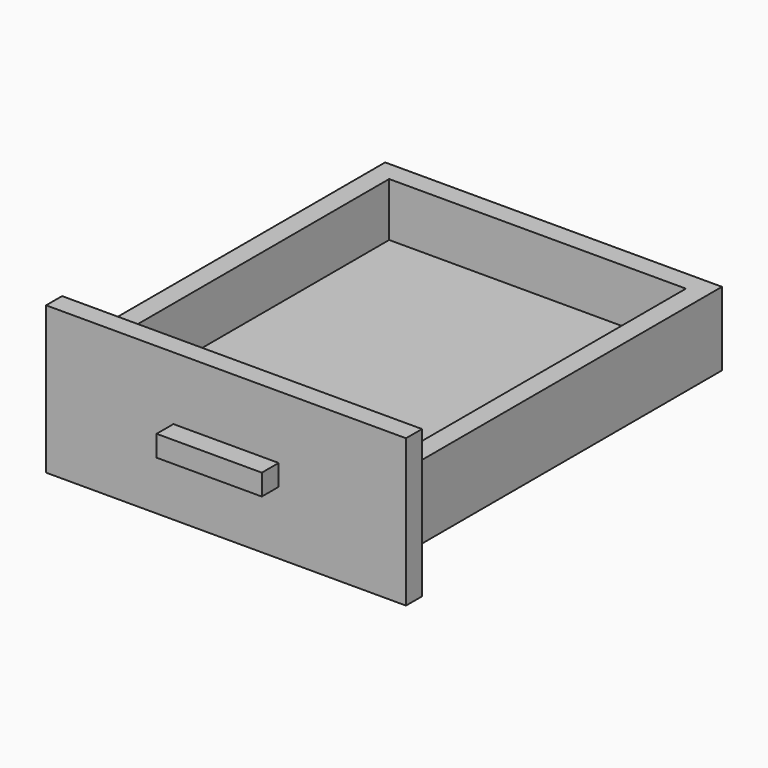
from build123d import *

# Parameters (mm, degrees)
F0_W     = 320
F0_H     = 370
F1_DEPTH = 70
F2_W     = 282
F2_H     = 332
F3_DEPTH = 51
F4_W     = 342
F4_H     = 140
F4_W_2   = 320
F4_H_2   = 70
F5_DEPTH = 19
F6_W     = 100
F6_H     = 20
F7_DEPTH = 20


with BuildPart() as f1:
    # F0 (on Top) → F1 (new body)
    with BuildSketch(Plane.XY):
        Rectangle(F0_W, F0_H)
    extrude(amount=F1_DEPTH)

    # F2 (on face) → F3 (cut)
    with BuildSketch(Plane.XY.offset(70)):
        Rectangle(F2_W, F2_H)
    extrude(amount=-F3_DEPTH, mode=Mode.SUBTRACT)

    # F4 (on face) → F5 (join)
    with BuildSketch(Plane.XZ.offset(185)):
        with Locations((0, 35)):
            Rectangle(F4_W, F4_H)
        with Locations((0, 35)):
            Rectangle(F4_W_2, F4_H_2, mode=Mode.SUBTRACT)
        with Locations((0, 35)):
            Rectangle(F4_W_2, F4_H_2)
    extrude(amount=F5_DEPTH)

    # F6 (on face) → F7 (join)
    with BuildSketch(Plane.XZ.offset(204)):
        with Locations((0, 35)):
            Rectangle(F6_W, F6_H)
    extrude(amount=F7_DEPTH)


solid = f1.part
